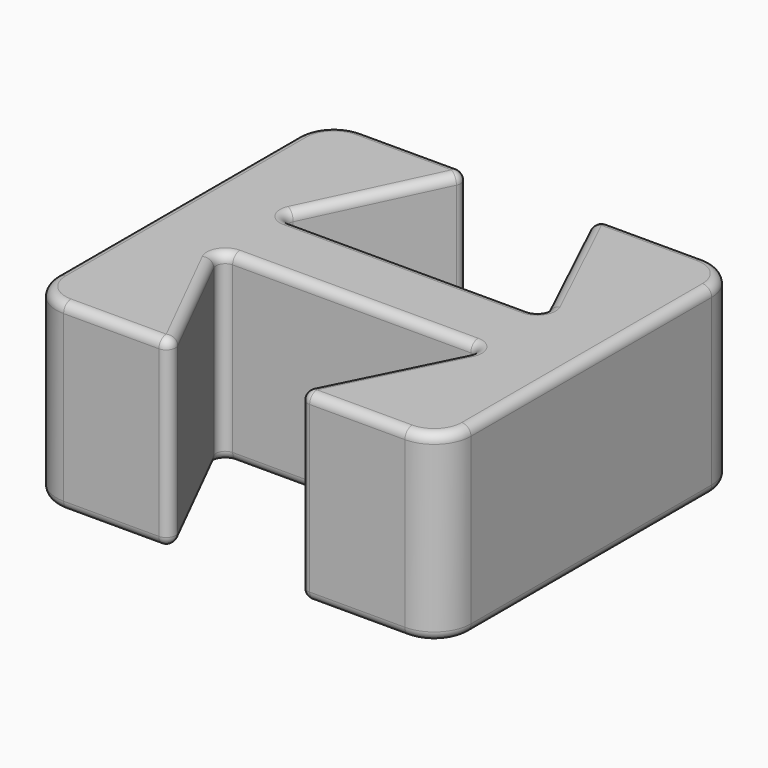
from build123d import *

# Parameters (mm, degrees)
F1_DEPTH = 5
F2_R     = 1
F3_R     = 0.25
F4_R     = 0.25


with BuildPart() as f1:
    # F0 (on Top) → F1 (new body)
    with BuildSketch(Plane.XY):
        Polygon((3.65, 0), (-3.65, 0), (-1.65, 4.2), (-5.65, 4.2), (-5.65, -6), (-1.65, -6), (-3.65, -2), (3.65, -2), (1.65, -6), (5.65, -6), (5.65, 0), (5.65, 4.2), (1.65, 4.2), align=None)
    extrude(amount=F1_DEPTH)

    # F2
    f2_edges = [f1.edges().sort_by_distance(p)[0] for p in [
        (-5.65, -6, 2.5),
        (-5.65, 4.2, 2.5),
        (5.65, -6, 2.5),
        (5.65, 4.2, 2.5),
    ]]
    fillet(f2_edges, radius=F2_R)

    # F3
    f3_edges = [f1.edges().sort_by_distance(p)[0] for p in [
        (1.65, 4.2, 2.5),
        (-1.65, 4.2, 2.5),
        (3.65, 0, 2.5),
        (-3.65, 0, 2.5),
        (-3.65, -2, 2.5),
        (3.65, -2, 2.5),
        (1.65, -6, 2.5),
        (-1.65, -6, 2.5),
    ]]
    fillet(f3_edges, radius=F3_R)

    # F4
    f4_edges = [f1.edges().sort_by_distance(p)[0] for p in [
        (-5.357107, 3.907107, 5),
        (3.347973, 4.2, 0),
    ]]
    fillet(f4_edges, radius=F4_R)


solid = f1.part
